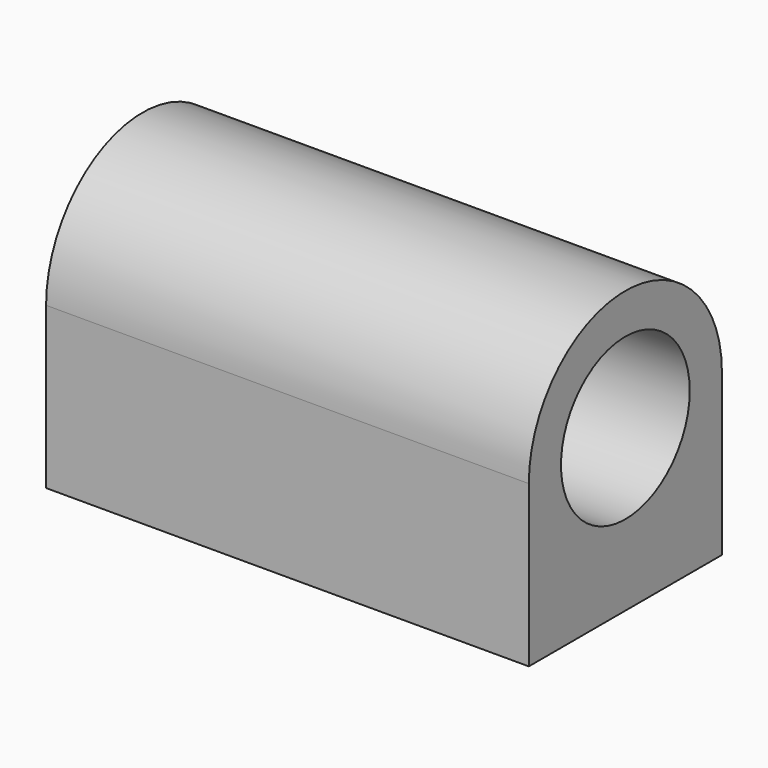
from build123d import *

# Parameters (mm, degrees)
F1_DEPTH = 76.2
F2_R     = 1.651
F3_DEPTH = 12.7


with BuildPart() as f1:
    # F0 (on Right) → F1 (new body)
    with BuildSketch(Plane.YZ):
        with BuildLine():
            ThreePointArc((-12.7, 0), (0, 12.7), (12.7, 0))
            Line((12.7, 0), (19.05, 0))
            ThreePointArc((19.05, 0), (0, 19.05), (-19.05, 0))
            Line((-19.05, 0), (-12.7, 0))
        make_face()
        with BuildLine():
            Line((19.05, 0), (12.7, 0))
            ThreePointArc((12.7, 0), (0, -12.7), (-12.7, 0))
            Line((-12.7, 0), (-19.05, 0))
            Line((-19.05, 0), (-19.05, -25.4))
            Line((-19.05, -25.4), (19.05, -25.4))
            Line((19.05, -25.4), (19.05, 0))
        make_face()
    extrude(amount=F1_DEPTH)

    # F2 (on face) → F3 (cut)
    with BuildSketch(Plane(origin=(0, 0, -25.4), x_dir=(1, 0, 0), z_dir=(0, 0, -1))):
        with Locations((69.85, 12.7)):
            Circle(F2_R)
        with Locations((69.85, -12.7)):
            Circle(F2_R)
        with Locations((6.35, 12.7)):
            Circle(F2_R)
        with Locations((6.35, -12.7)):
            Circle(F2_R)
    extrude(amount=-F3_DEPTH, mode=Mode.SUBTRACT)


solid = f1.part
